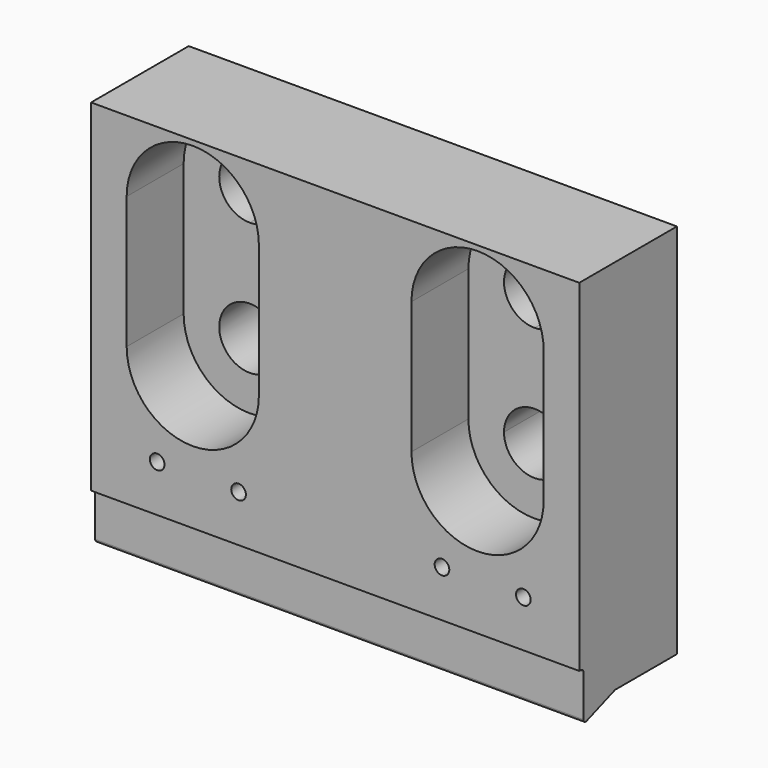
from build123d import *

# Parameters (mm, degrees)
F0_W      = 24
F0_H      = 19.22
F1_DEPTH  = 6
F3_DEPTH  = 6
F5_DEPTH  = 3.5
F6_W      = 24
F6_H      = 2.42
F7_DEPTH  = 0.25
F9_DEPTH  = 6
F11_DEPTH = 24
F12_R     = 0.15
F13_R     = 0.15


with BuildPart() as f1:
    # F0 (on Front) → F1 (new body)
    with BuildSketch(Plane.XZ):
        Rectangle(F0_W, F0_H)
    extrude(amount=-F1_DEPTH)

    # F2 (on face) → F3 (cut, through all)
    with BuildSketch(Plane.XZ):
        with BuildLine():
            ThreePointArc((-5.5, 6.11), (-5.93934, 7.17066), (-7, 7.61))
            Line((-7, 7.61), (-7, 6.11))
            Line((-7, 6.11), (-7, 4.61))
            ThreePointArc((-7, 4.61), (-5.93934, 5.04934), (-5.5, 6.11))
        make_face()
        with BuildLine():
            ThreePointArc((7, 7.61), (5.5, 6.11), (7, 4.61))
            Line((7, 4.61), (7, 6.11))
            Line((7, 6.11), (7, 7.61))
        make_face()
        with BuildLine():
            Line((7, 6.11), (7, 4.61))
            ThreePointArc((7, 4.61), (8.06066, 5.04934), (8.5, 6.11))
            ThreePointArc((8.5, 6.11), (8.06066, 7.17066), (7, 7.61))
            Line((7, 7.61), (7, 6.11))
        make_face()
        with BuildLine():
            ThreePointArc((7, 1.11), (5.93934, 0.67066), (5.5, -0.39))
            Line((5.5, -0.39), (7, -0.39))
            Line((7, -0.39), (7, 1.11))
        make_face()
        with BuildLine():
            Line((7, -0.39), (5.5, -0.39))
            ThreePointArc((5.5, -0.39), (7, -1.89), (8.5, -0.39))
            ThreePointArc((8.5, -0.39), (8.06066, 0.67066), (7, 1.11))
            Line((7, 1.11), (7, -0.39))
        make_face()
        with BuildLine():
            ThreePointArc((-5.5, -0.39), (-5.93934, 0.67066), (-7, 1.11))
            Line((-7, 1.11), (-7, -0.39))
            Line((-7, -0.39), (-5.5, -0.39))
        make_face()
        with BuildLine():
            Line((-7, -0.39), (-7, 1.11))
            ThreePointArc((-7, 1.11), (-8.06066, -1.45066), (-5.5, -0.39))
            Line((-5.5, -0.39), (-7, -0.39))
        make_face()
        with BuildLine():
            Line((-7, 6.11), (-7, 7.61))
            ThreePointArc((-7, 7.61), (-8.5, 6.11), (-7, 4.61))
            Line((-7, 4.61), (-7, 6.11))
        make_face()
    extrude(amount=-F3_DEPTH, mode=Mode.SUBTRACT)

    # F4 (on face) → F5 (cut)
    with BuildSketch(Plane.XZ):
        with BuildLine():
            ThreePointArc((-3.75, 6.11), (-7, 9.36), (-10.25, 6.11))
            Line((-10.25, 6.11), (-10.25, -0.39))
            ThreePointArc((-10.25, -0.39), (-7, -3.64), (-3.75, -0.39))
            Line((-3.75, -0.39), (-3.75, 6.11))
        make_face()
        with BuildLine():
            ThreePointArc((3.75, -0.39), (7, -3.64), (10.25, -0.39))
            Line((10.25, -0.39), (10.25, 6.11))
            ThreePointArc((10.25, 6.11), (7, 9.36), (3.75, 6.11))
            Line((3.75, 6.11), (3.75, -0.39))
        make_face()
    extrude(amount=-F5_DEPTH, mode=Mode.SUBTRACT)

    # F6 (on face) → F7 (cut)
    with BuildSketch(Plane.XZ):
        with Locations((0, -8.4)):
            Rectangle(F6_W, F6_H)
    extrude(amount=-F7_DEPTH, mode=Mode.SUBTRACT)

    # F8 (on face) → F9 (cut, through all)
    with BuildSketch(Plane.XZ):
        with BuildLine():
            ThreePointArc((-8.39, -4.89), (-8.495442, -4.635442), (-8.75, -4.53))
            Line((-8.75, -4.53), (-8.75, -4.89))
            Line((-8.75, -4.89), (-8.39, -4.89))
        make_face()
        with BuildLine():
            ThreePointArc((9.61, -4.89), (9.25, -4.53), (8.89, -4.89))
            ThreePointArc((8.89, -4.89), (9.25, -5.25), (9.61, -4.89))
        make_face()
        with BuildLine():
            ThreePointArc((5.61, -4.89), (5.25, -4.53), (4.89, -4.89))
            Line((4.89, -4.89), (5.25, -4.89))
            Line((5.25, -4.89), (5.61, -4.89))
        make_face()
        with BuildLine():
            Line((5.25, -4.89), (4.89, -4.89))
            ThreePointArc((4.89, -4.89), (5.25, -5.25), (5.61, -4.89))
            Line((5.61, -4.89), (5.25, -4.89))
        make_face()
        with BuildLine():
            ThreePointArc((-4.39, -4.89), (-4.75, -4.53), (-5.11, -4.89))
            Line((-5.11, -4.89), (-4.75, -4.89))
            Line((-4.75, -4.89), (-4.39, -4.89))
        make_face()
        with BuildLine():
            Line((-4.75, -4.89), (-5.11, -4.89))
            ThreePointArc((-5.11, -4.89), (-4.75, -5.25), (-4.39, -4.89))
            Line((-4.39, -4.89), (-4.75, -4.89))
        make_face()
        with BuildLine():
            Line((-8.75, -4.89), (-8.75, -4.53))
            ThreePointArc((-8.75, -4.53), (-9.004558, -5.144558), (-8.39, -4.89))
            Line((-8.39, -4.89), (-8.75, -4.89))
        make_face()
    extrude(amount=-F9_DEPTH, mode=Mode.SUBTRACT)

    # F10 (on face) → F11 (cut, through all)
    with BuildSketch(Plane.YZ.offset(12)):
        Polygon((2.2, -8.900258), (0.25, -9.61), (6, -9.61), (6, -8.900258), align=None)
    extrude(amount=-F11_DEPTH, mode=Mode.SUBTRACT)

    # F12
    f12_edges = [f1.edges().sort_by_distance(p)[0] for p in [
        (0, 0.25, -9.61),
    ]]
    fillet(f12_edges, radius=F12_R)

    # F13
    f13_edges = [f1.edges().sort_by_distance(p)[0] for p in [
        (0, 0.25, -7.19),
    ]]
    fillet(f13_edges, radius=F13_R)


solid = f1.part
